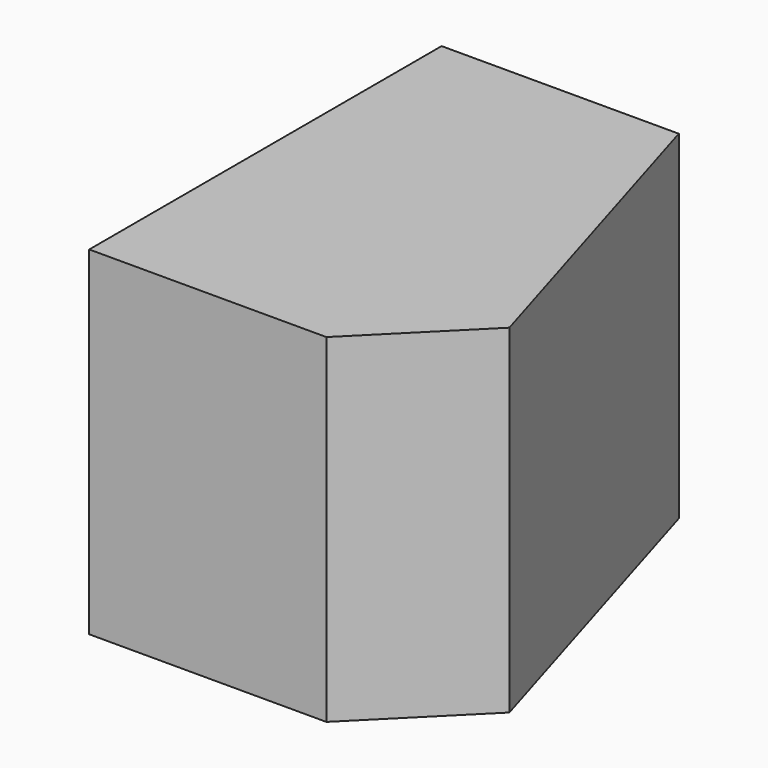
from build123d import *

# Parameters (mm, degrees)
F0_W     = 15.875
F0_H     = 15.875
F1_DEPTH = 20.6375
F3_DEPTH = 15.876
F5_DEPTH = 15.876
F8_ANGLE = 90


with BuildPart() as f1:
    # F0 (on Top) → F1 (new body)
    with BuildSketch(Plane.XY):
        Rectangle(F0_W, F0_H)
    extrude(amount=-F1_DEPTH)

    # F2 (on face) → F3 (cut, through all)
    with BuildSketch(Plane.XZ.offset(7.9375)):
        Polygon((7.9375, 0), (3.175, 0), (7.9375, -15.875), align=None)
    extrude(amount=-F3_DEPTH, mode=Mode.SUBTRACT)

    # F4 (on face) → F5 (cut, through all)
    with BuildSketch(Plane.XZ.offset(7.9375)):
        Polygon((7.9375, -20.6375), (7.9375, -15.875), (3.175, -20.6375), align=None)
    extrude(amount=-F5_DEPTH, mode=Mode.SUBTRACT)


with BuildPart() as f1_1:
    # F6: moved
    add(f1.part.moved(Location((-7.9375, 0, 0))))


with BuildPart() as f1_2:
    # F7: moved
    add(f1_1.part.moved(Location((0, 7.9375, 0))))


with BuildPart() as f1_3:
    # F8: moved
    add(f1_2.part.rotate(Axis((-10.31875, 0, 0), (-1, 0, 0)), F8_ANGLE))


solid = f1_3.part
